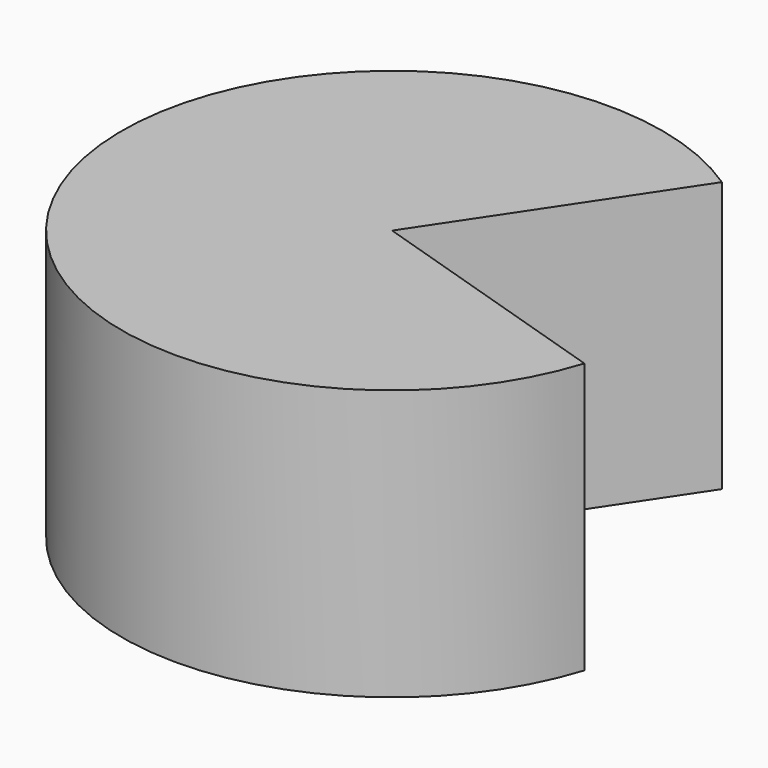
from build123d import *

# Parameters (mm, degrees)
F1_DEPTH = 25.4


with BuildPart() as f1:
    # F0 (on Top) → F1 (new body)
    with BuildSketch(Plane.XY):
        with BuildLine():
            ThreePointArc((14.089385, 21.134077), (-23.963594, -8.420579), (24.212657, -7.675105))
            Line((24.212657, -7.675105), (0, 0))
            Line((0, 0), (14.089385, 21.134077))
        make_face()
    extrude(amount=F1_DEPTH)


solid = f1.part
